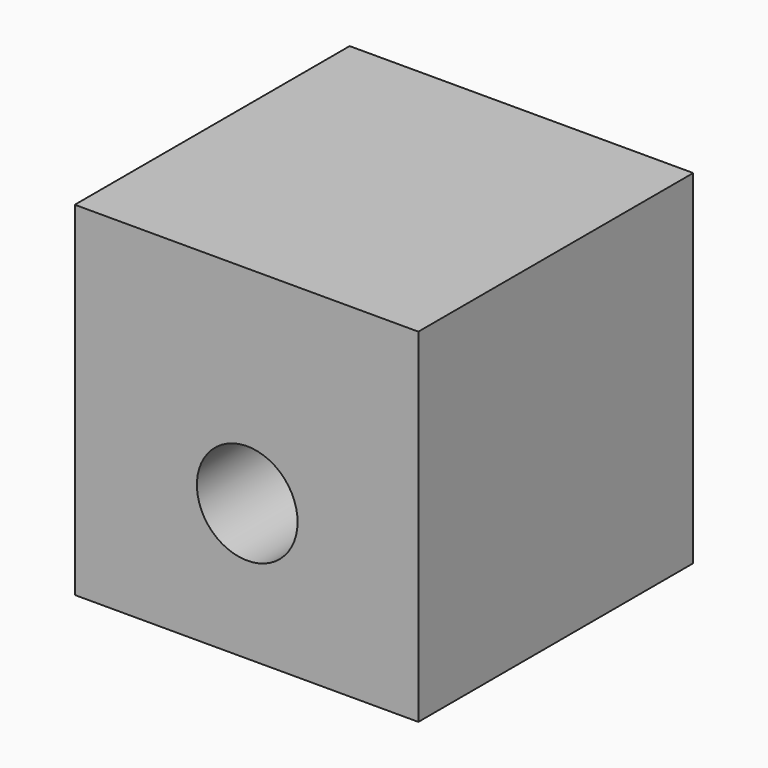
from build123d import *

# Parameters (mm, degrees)
F0_W     = 50.8
F0_H     = 50.8
F1_DEPTH = 50.8
F2_R     = 7.4453677319
F3_DEPTH = 50.8
F5_DEPTH = 4.7625
F6_R     = 1.5875
F7_DEPTH = 25.4


with BuildPart() as f1:
    # F0 (on Front) → F1 (new body)
    with BuildSketch(Plane.XZ):
        with Locations((-0.097932294, -5.0924364477)):
            Rectangle(F0_W, F0_H)
    extrude(amount=F1_DEPTH)

    # F2 (on face) → F3 (cut)
    with BuildSketch(Plane.XZ.offset(50.8)):
        with Locations((0, -10.2828023955)):
            Circle(F2_R)
    extrude(amount=-F3_DEPTH, mode=Mode.SUBTRACT)


with BuildPart() as f5:
    # F4 (on Top) → F5 (new body)
    with BuildSketch(Plane.XY):
        Polygon((-51.9754371398, 50.3634488253), (-47.8477183507, 52.7390211454), (-47.8411649339, 57.5015166365), (-51.9623303063, 59.8884398075), (-56.0900490953, 57.5128674873), (-56.0966025121, 52.7503719962), align=None)
    extrude(amount=F5_DEPTH)

    # F5_face (on face) + F6 (on face) → F7 (cut)
    with BuildSketch(Plane(origin=(-51.968883723, 55.1259443164, 4.7625), x_dir=(1, 0, 0), z_dir=(0, 0, 1))):
        Polygon((-0.0065534168, -4.7624954911), (4.1211653723, -2.3869231709), (4.1277187891, 2.3755723202), (0.0065534168, 4.7624954911), (-4.1211653723, 2.3869231709), (-4.1277187891, -2.3755723202), align=None)
    with BuildSketch(Plane.XY):
        with Locations((-51.968883723, 55.1259443164)):
            Circle(F6_R)
    extrude(amount=-F7_DEPTH, mode=Mode.SUBTRACT)


solid = f1.part
